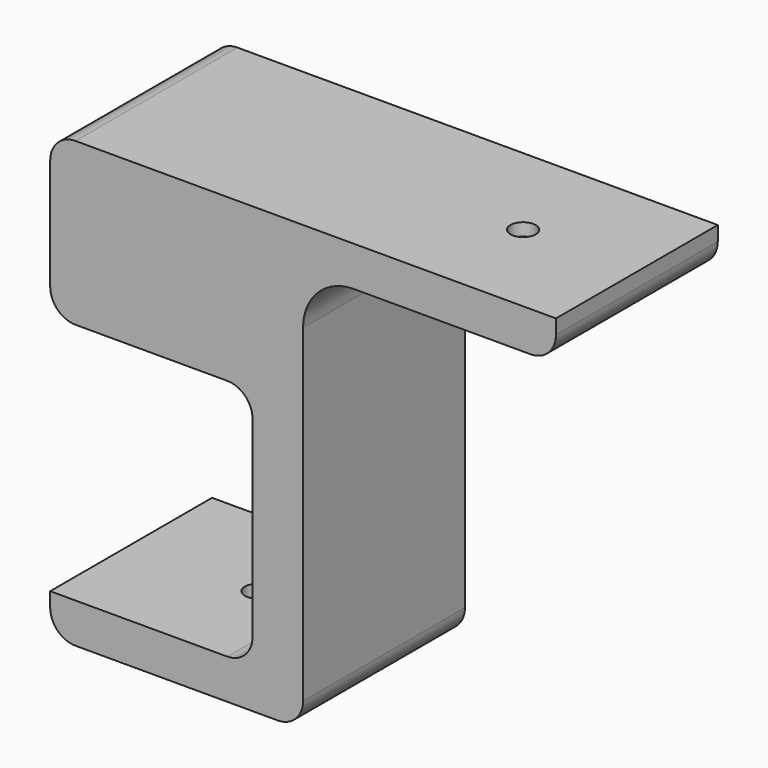
from build123d import *

# Parameters (mm, degrees)
F1_DEPTH             = 12.7
F4_D                 = 3.175
F4_DEPTH             = 25.4
F4_CSINK_D           = 9.1186
F4_CSINK_ANGLE       = 82
F4_TIP               = 0.9538662327
F4_ON_F2_D           = 3.175
F4_ON_F2_DEPTH       = 25.4
F4_ON_F2_CSINK_D     = 9.1186
F4_ON_F2_CSINK_ANGLE = 82
F4_ON_F2_TIP         = 0.9538662327


with BuildPart() as f1:
    # F0 (on Front) → F1 (new body, symmetric)
    with BuildSketch(Plane.XZ):
        with BuildLine():
            Line((-3.175, -30.48), (-25.4, -30.48))
            Line((-25.4, -30.48), (-25.4, -32.305))
            ThreePointArc((-25.4, -32.305), (-24.4700640303, -34.5500640303), (-22.225, -35.48))
            Line((-22.225, -35.48), (3.175, -35.48))
            ThreePointArc((3.175, -35.48), (5.4200640303, -34.5500640303), (6.35, -32.305))
            Line((6.35, -32.305), (6.35, 8.97))
            ThreePointArc((6.35, 8.97), (8.2098719395, 13.4601280605), (12.7, 15.32))
            Line((12.7, 15.32), (34.925, 15.32))
            ThreePointArc((34.925, 15.32), (37.1700640303, 16.2499359697), (38.1, 18.495))
            Line((38.1, 18.495), (38.1, 20.32))
            Line((38.1, 20.32), (-22.225, 20.32))
            ThreePointArc((-22.225, 20.32), (-24.4700640303, 19.3900640303), (-25.4, 17.145))
            Line((-25.4, 17.145), (-25.4, 3.175))
            ThreePointArc((-25.4, 3.175), (-24.4700640303, 0.9299359697), (-22.225, 0))
            Line((-22.225, 0), (-3.175, 0))
            ThreePointArc((-3.175, 0), (-0.9299359697, -0.9299359697), (0, -3.175))
            Line((0, -3.175), (0, -27.305))
            ThreePointArc((0, -27.305), (-0.9299359697, -29.5500640303), (-3.175, -30.48))
        make_face()
    extrude(amount=F1_DEPTH, both=True)

    # F4
    with Locations(Plane(origin=(0, 0, 15.32), x_dir=(1, 0, 0), z_dir=(0, 0, -1))):
        with Locations((23.8125, 0)):
            CounterSinkHole(F4_D / 2, F4_CSINK_D / 2, depth=F4_DEPTH, counter_sink_angle=F4_CSINK_ANGLE)
            with Locations((0, 0, -(F4_DEPTH + F4_TIP / 2))):  # 118° drill point
                Cone(0, F4_D / 2, F4_TIP, mode=Mode.SUBTRACT)

    # F4 on F2
    with Locations(Plane(origin=(0, 0, -35.48), x_dir=(1, 0, 0), z_dir=(0, 0, -1))):
        with Locations((-9.525, 0)):
            CounterSinkHole(F4_ON_F2_D / 2, F4_ON_F2_CSINK_D / 2, depth=F4_ON_F2_DEPTH, counter_sink_angle=F4_ON_F2_CSINK_ANGLE)
            with Locations((0, 0, -(F4_ON_F2_DEPTH + F4_ON_F2_TIP / 2))):  # 118° drill point
                Cone(0, F4_ON_F2_D / 2, F4_ON_F2_TIP, mode=Mode.SUBTRACT)


solid = f1.part
